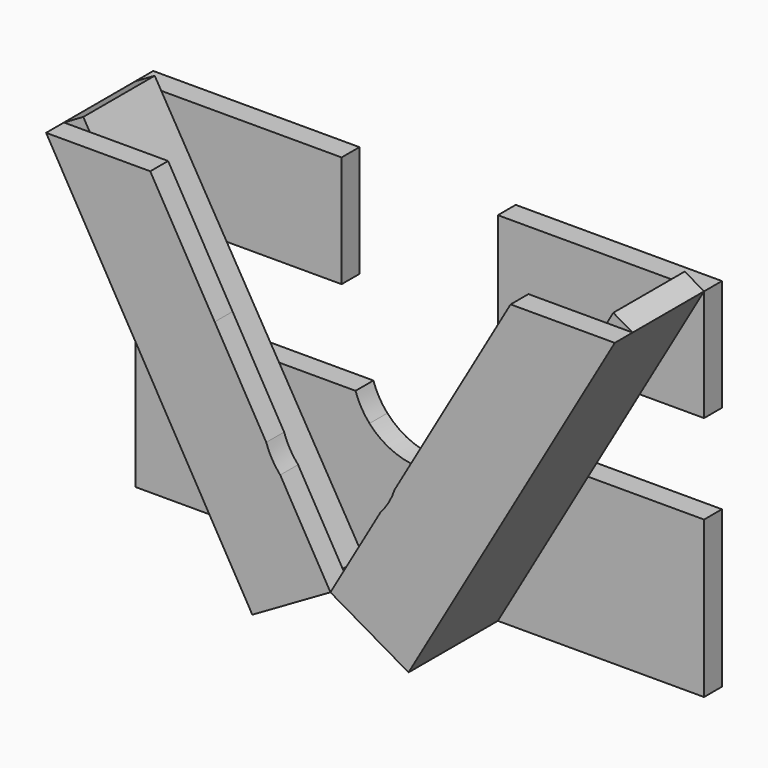
from build123d import *

# Parameters (mm, degrees)
F1_DEPTH = 12.7
F3_DEPTH = 50.8
F5_DEPTH = 50.8
F8_START = -50.8
F8_DEPTH = 12.7


with BuildPart() as f1:
    # F0 (on Front) → F1 (new body)
    with BuildSketch(Plane.XZ):
        Polygon((95.776438931, -12.7), (44.45, -12.7), (44.45, -101.6), align=None)
        Polygon((65.8391659391, 38.1), (44.45, 1.0528778619), (44.45, -12.7), (95.776438931, -12.7), (125.1058326058, 38.1), align=None)
        Polygon((161.7675746993, 101.6), (102.5009080327, 101.6), (65.8391659391, 38.1), (125.1058326058, 38.1), align=None)
        with BuildLine():
            Line((44.45, -101.6), (44.45, -12.7))
            Line((44.45, -12.7), (36.5097722643, -12.7))
            ThreePointArc((36.5097722643, -12.7), (33.2559618085, -19.9987199729), (28.5619901248, -26.4659624732))
            Line((28.5619901248, -26.4659624732), (0, -75.9367805345))
            Line((0, -75.9367805345), (44.45, -101.6))
        make_face()
        Polygon((65.8391659391, 38.1), (44.45, 1.0528778619), (44.45, -12.7), (95.776438931, -12.7), (125.1058326058, 38.1), align=None)
        Polygon((44.45, -12.7), (44.45, 1.0528778619), (36.5097722643, -12.7), align=None)
        Polygon((161.7675746993, 101.6), (102.5009080327, 101.6), (65.8391659391, 38.1), (125.1058326058, 38.1), align=None)
    extrude(amount=F1_DEPTH)

    # F4 (on face) → F5 (join)
    with BuildSketch(Plane(origin=(0, 0, 0), x_dir=(-1, 0, 0), z_dir=(0, 1, 0))):
        Polygon((-150.7690520713, 107.95), (-161.7675746993, 101.6), (-44.45, -101.6), (-33.4514773719, -95.25), align=None)
    extrude(amount=F5_DEPTH)


with BuildPart() as f1b:
    # F0 (on Front) → F1, piece 2 (new body)
    with BuildSketch(Plane.XZ):
        Polygon((-44.45, -101.6), (-44.45, -12.7), (-95.776438931, -12.7), align=None)
        Polygon((-44.45, -12.7), (-44.45, 1.0528778619), (-65.8391659391, 38.1), (-125.1058326058, 38.1), (-95.776438931, -12.7), align=None)
        Polygon((-65.8391659391, 38.1), (-102.5009080327, 101.6), (-103.1087873497, 101.6), (-161.7675746993, 101.6), (-125.1058326058, 38.1), align=None)
        with BuildLine():
            Line((-36.5097722643, -12.7), (-44.45, -12.7))
            Line((-44.45, -12.7), (-44.45, -101.6))
            Line((-44.45, -101.6), (0, -75.9367805345))
            Line((0, -75.9367805345), (-28.5619901248, -26.4659624732))
            ThreePointArc((-28.5619901248, -26.4659624732), (-33.2559618085, -19.9987199729), (-36.5097722643, -12.7))
        make_face()
        Polygon((-65.8391659391, 38.1), (-102.5009080327, 101.6), (-103.1087873497, 101.6), (-161.7675746993, 101.6), (-125.1058326058, 38.1), align=None)
        Polygon((-44.45, -12.7), (-44.45, 1.0528778619), (-65.8391659391, 38.1), (-125.1058326058, 38.1), (-95.776438931, -12.7), align=None)
        Polygon((-36.5097722643, -12.7), (-44.45, 1.0528778619), (-44.45, -12.7), align=None)
    extrude(amount=F1_DEPTH)

    # F2 (on face) → F3 (join)
    with BuildSketch(Plane(origin=(0, 0, 0), x_dir=(-1, 0, 0), z_dir=(0, 1, 0))):
        Polygon((44.45, -101.6), (161.7675746993, 101.6), (150.7690520713, 107.95), (32.047920336, -94.4396559675), align=None)
    extrude(amount=F3_DEPTH)


with BuildPart() as f8:
    # F0 (on Front) → F8 (new body)
    with BuildSketch(Plane.XZ.offset(F8_START)):
        Polygon((161.7675746993, 38.1), (161.7675746993, 101.6), (125.1058326058, 38.1), align=None)
        Polygon((102.5009080327, 101.6), (44.45, 101.6), (44.45, 38.1), (65.8391659391, 38.1), align=None)
        Polygon((161.7675746993, 101.6), (102.5009080327, 101.6), (65.8391659391, 38.1), (125.1058326058, 38.1), align=None)
    extrude(amount=-F8_DEPTH)


with BuildPart() as f8b:
    # F0 (on Front) → F8, piece 2 (new body)
    with BuildSketch(Plane.XZ.offset(F8_START)):
        with BuildLine():
            Line((0, -75.9367805345), (28.5619901248, -26.4659624732))
            ThreePointArc((28.5619901248, -26.4659624732), (0, -39.1990584752), (-28.5619901248, -26.4659624732))
            Line((-28.5619901248, -26.4659624732), (0, -75.9367805345))
        make_face()
        Polygon((-44.45, -101.6), (44.45, -101.6), (0, -75.9367805345), align=None)
        Polygon((95.776438931, -12.7), (44.45, -101.6), (161.7675746993, -101.6), (161.7675746993, -12.7), align=None)
        Polygon((95.776438931, -12.7), (44.45, -12.7), (44.45, -101.6), align=None)
        Polygon((-161.7675746993, -101.6), (-44.45, -101.6), (-95.776438931, -12.7), (-161.7675746993, -12.7), align=None)
        with BuildLine():
            Line((-36.5097722643, -12.7), (-44.45, -12.7))
            Line((-44.45, -12.7), (-44.45, -101.6))
            Line((-44.45, -101.6), (0, -75.9367805345))
            Line((0, -75.9367805345), (-28.5619901248, -26.4659624732))
            ThreePointArc((-28.5619901248, -26.4659624732), (-33.2559618085, -19.9987199729), (-36.5097722643, -12.7))
        make_face()
        Polygon((-44.45, -101.6), (-44.45, -12.7), (-95.776438931, -12.7), align=None)
        with BuildLine():
            Line((44.45, -101.6), (44.45, -12.7))
            Line((44.45, -12.7), (36.5097722643, -12.7))
            ThreePointArc((36.5097722643, -12.7), (33.2559618085, -19.9987199729), (28.5619901248, -26.4659624732))
            Line((28.5619901248, -26.4659624732), (0, -75.9367805345))
            Line((0, -75.9367805345), (44.45, -101.6))
        make_face()
    extrude(amount=-F8_DEPTH)


with BuildPart() as f8c:
    # F0 (on Front) → F8, piece 3 (new body)
    with BuildSketch(Plane.XZ.offset(F8_START)):
        Polygon((-65.8391659391, 38.1), (-102.5009080327, 101.6), (-103.1087873497, 101.6), (-161.7675746993, 101.6), (-125.1058326058, 38.1), align=None)
        Polygon((-44.45, 38.1), (-44.45, 101.6), (-102.5009080327, 101.6), (-65.8391659391, 38.1), align=None)
        Polygon((-161.7675746993, 38.1), (-125.1058326058, 38.1), (-161.7675746993, 101.6), align=None)
    extrude(amount=-F8_DEPTH)


solid = Compound([f1.part, f1b.part, f8.part, f8b.part, f8c.part])
